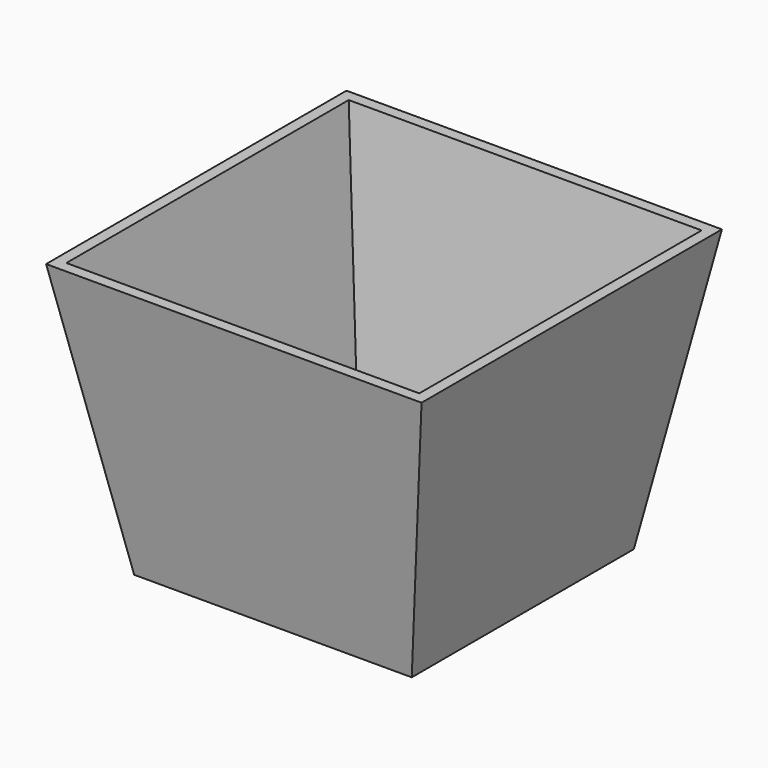
from build123d import *

# Parameters (mm, degrees)
F0_W     = 25.4
F0_H     = 25.4
F1_DEPTH = 25.4
F1_TAPER = -10
F2_T     = -1.016


with BuildPart() as f1:
    # F0 (on Top) → F1 (new body)
    with BuildSketch(Plane.XY):
        Rectangle(F0_W, F0_H)
    extrude(amount=F1_DEPTH, taper=F1_TAPER)

    # F2
    f2_openings = [f1.faces().sort_by_distance(p)[0] for p in [
        (0, 0, 25.4),
    ]]
    offset(amount=F2_T, openings=f2_openings)


solid = f1.part
